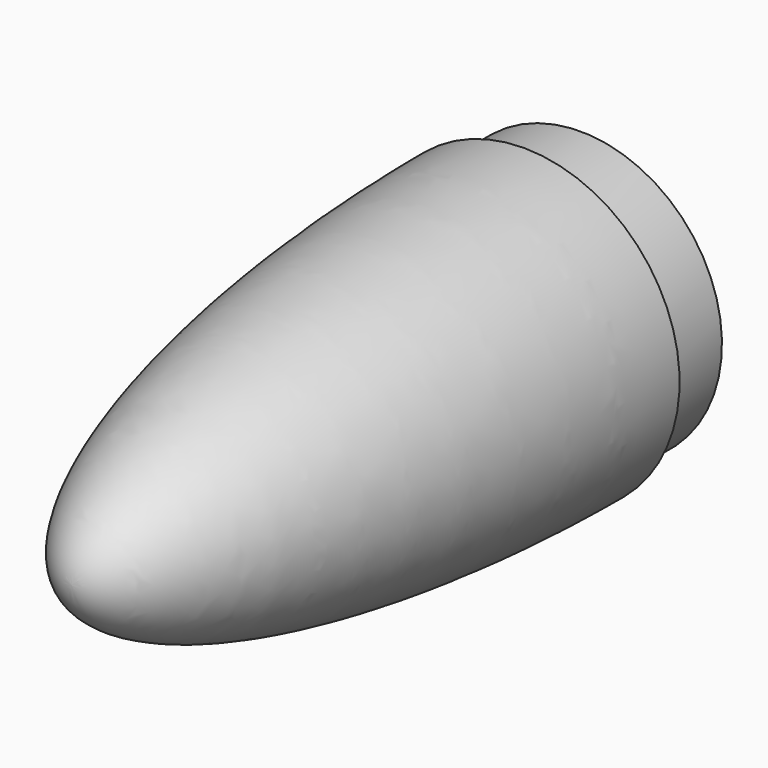
from build123d import *

# Parameters (mm, degrees)
F0_W = 10
F0_H = 20


with BuildPart() as f1:
    # F0 (on Right) → F1 (revolve)
    with BuildSketch(Plane.YZ):
        with BuildLine():
            Line((0, -20), (0, 0))
            Line((0, 0), (-80, 0))
            add(Edge.make_bspline(
                [(-80, 0), (-80, -22), (0, -22)],
                knots=[0, 0, 0, 1.570796, 1.570796, 1.570796], degree=2, weights=[1, 0.707107, 1]))
            Line((0, -22), (0, -20))
        make_face()
        with Locations((5, -10)):
            Rectangle(F0_W, F0_H)
    revolve(axis=Axis((0, -40, 0), (0, -1, 0)))


solid = f1.part
